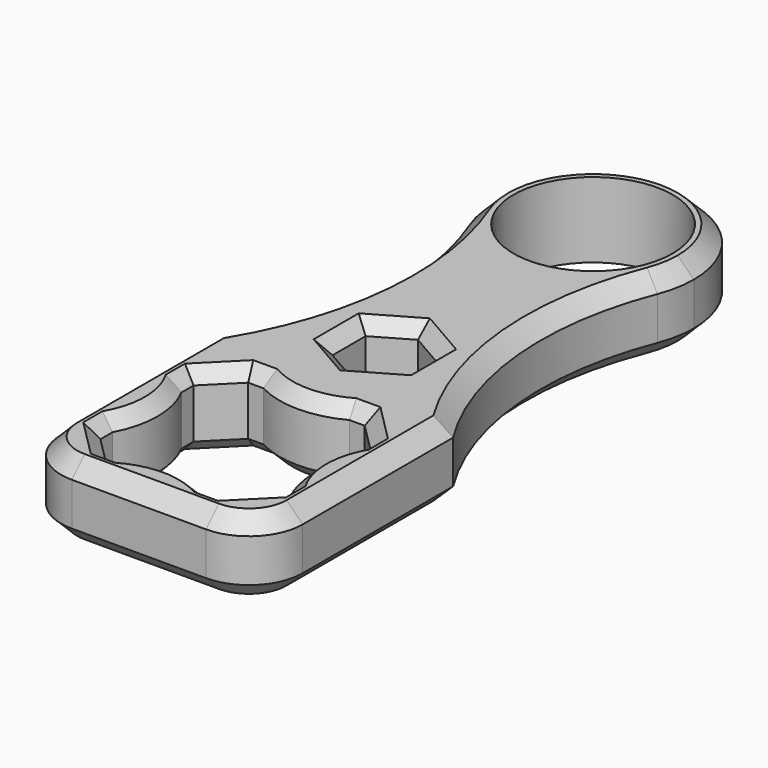
from build123d import *

# Parameters (mm, degrees)
F0_W     = 22.5
F0_H     = 22.5
F0_R     = 7.4115696456
F1_DEPTH = 7
F2_SIZE  = 1.2
F3_R     = 5
F4_SIZE  = 1.5
F5_SCALE = 1.05


with BuildPart() as f1:
    # F0 (on Top) → F1 (new body)
    with BuildSketch(Plane.XY):
        Rectangle(F0_W, F0_H)
        with BuildLine():
            Line((4, 8.25), (5.4215728753, 8.25))
            Line((5.4215728753, 8.25), (8.25, 5.4215728753))
            Line((8.25, 5.4215728753), (8.25, 4))
            ThreePointArc((8.25, 4), (7.25, 0), (8.25, -4))
            Line((8.25, -4), (8.25, -5.4215728753))
            Line((8.25, -5.4215728753), (5.4215728753, -8.25))
            Line((5.4215728753, -8.25), (4, -8.25))
            ThreePointArc((4, -8.25), (0, -7.25), (-4, -8.25))
            Line((-4, -8.25), (-5.4215728753, -8.25))
            Line((-5.4215728753, -8.25), (-8.25, -5.4215728753))
            Line((-8.25, -5.4215728753), (-8.25, -4))
            ThreePointArc((-8.25, -4), (-7.25, 0), (-8.25, 4))
            Line((-8.25, 4), (-8.25, 5.4215728753))
            Line((-8.25, 5.4215728753), (-5.4215728753, 8.25))
            Line((-5.4215728753, 8.25), (-4, 8.25))
            ThreePointArc((-4, 8.25), (0, 7.25), (4, 8.25))
        make_face(mode=Mode.SUBTRACT)
        with BuildLine():
            Line((-11.25, 11.25), (11.25, 11.25))
            ThreePointArc((11.25, 11.25), (6.7870639403, 24.4144327009), (8.7322033942, 38.1780266762))
            ThreePointArc((8.7322033942, 38.1780266762), (0, 32.2246467329), (-8.7322033942, 38.1780266762))
            ThreePointArc((-8.7322033942, 38.1780266762), (-6.7870639403, 24.4144327009), (-11.25, 11.25))
        make_face()
        Polygon((3.33375, 15.4506308903), (0, 13.5258894304), (-3.33375, 15.4506308903), (-3.33375, 19.3001138101), (0, 21.22485527), (3.33375, 19.3001138101), align=None, mode=Mode.SUBTRACT)
        with BuildLine():
            ThreePointArc((-8.7322033942, 38.1780266762), (0, 32.2246467329), (8.7322033942, 38.1780266762))
            ThreePointArc((8.7322033942, 38.1780266762), (9.2171730729, 39.8612931132), (9.3807307723, 41.6053775052))
            ThreePointArc((9.3807307723, 41.6053775052), (-1.744084392, 50.8225505781), (-8.7322033942, 38.1780266762))
        make_face()
        with Locations((0, 41.6053775052)):
            Circle(F0_R, mode=Mode.SUBTRACT)
    extrude(amount=F1_DEPTH)

    # F2
    f2_edges = [f1.edges().sort_by_distance(p)[0] for p in [
        (-7.25, 0, 7),
        (-8.25, 4.710786, 7),
        (-6.835786, 6.835786, 7),
        (-4.710786, 8.25, 7),
        (0, 7.25, 7),
        (4.710786, 8.25, 7),
        (6.835786, 6.835786, 7),
        (8.25, 4.710786, 7),
        (7.25, 0, 7),
        (8.25, -4.710786, 7),
        (6.835786, -6.835786, 7),
        (4.710786, -8.25, 7),
        (0, -7.25, 7),
        (-4.710786, -8.25, 7),
        (-6.835786, -6.835786, 7),
        (-8.25, -4.710786, 7),
        (1.666875, 14.48826, 7),
        (-1.666875, 14.48826, 7),
        (-3.33375, 17.375372, 7),
        (-1.666875, 20.262485, 7),
        (1.666875, 20.262485, 7),
        (3.33375, 17.375372, 7),
        (-1.666875, 14.48826, 0),
        (1.666875, 14.48826, 0),
        (3.33375, 17.375372, 0),
        (1.666875, 20.262485, 0),
        (-1.666875, 20.262485, 0),
        (0, -7.25, 0),
        (-4.710786, -8.25, 0),
        (-6.835786, -6.835786, 0),
        (-8.25, -4.710786, 0),
        (-7.25, 0, 0),
        (-8.25, 4.710786, 0),
        (-4.710786, 8.25, 0),
        (4.710786, 8.25, 0),
        (-6.835786, 6.835786, 0),
        (0, 7.25, 0),
        (6.835786, 6.835786, 0),
        (8.25, 4.710786, 0),
        (7.25, 0, 0),
        (8.25, -4.710786, 0),
        (6.835786, -6.835786, 0),
        (4.710786, -8.25, 0),
        (-3.33375, 17.375372, 0),
    ]]
    chamfer(f2_edges, length=F2_SIZE)

    # F3
    f3_edges = [f1.edges().sort_by_distance(p)[0] for p in [
        (11.25, -11.25, 3.5),
        (-11.25, -11.25, 3.5),
    ]]
    fillet(f3_edges, radius=F3_R)

    # F4
    f4_edges = [f1.edges().sort_by_distance(p)[0] for p in [
        (0, 50.986108, 7),
        (11.25, 2.5, 7),
        (0, -11.25, 7),
        (-11.25, 2.5, 7),
        (0, 50.986108, 0),
        (-11.25, 2.5, 0),
        (0, -11.25, 0),
        (11.25, 2.5, 0),
    ]]
    chamfer(f4_edges, length=F4_SIZE)


with BuildPart() as f1_1:
    # F5: moved
    add(f1.part.scale(F5_SCALE))


solid = f1_1.part
